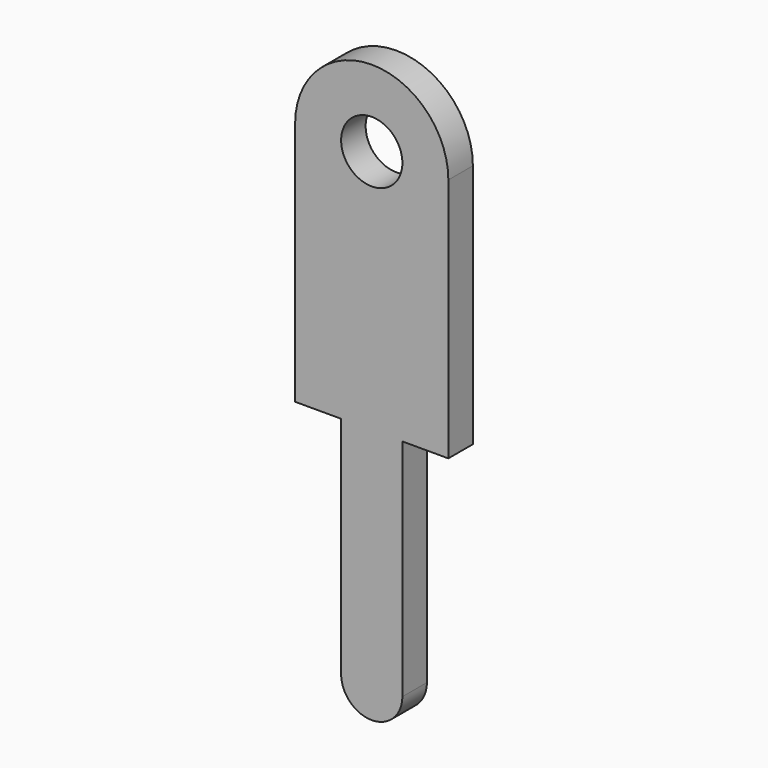
from build123d import *

# Parameters (mm, degrees)
SKETCH_R  = 0.6
PAD_DEPTH = 0.3


with BuildPart() as part:
    # Sketch → Pad (new body, symmetric)
    with BuildSketch(Plane(origin=(0, 0, 0), x_dir=(-1, 0, 0), z_dir=(0, 1, 0))):
        with BuildLine():
            Line((-1.5, 4.8), (-1.5, 0))
            Line((-1.5, 0), (-0.6, 0))
            Line((-0.6, 0), (-0.6, -4.4))
            ThreePointArc((-0.6, -4.4), (0, -5), (0.6, -4.4))
            Line((0.6, 0), (0.6, -4.4))
            Line((0.6, 0), (1.5, 0))
            Line((1.5, 0), (1.5, 4.8))
            ThreePointArc((1.5, 4.8), (0, 6.3), (-1.5, 4.8))
        make_face()
        with Locations((0, 4.8)):
            Circle(SKETCH_R, mode=Mode.SUBTRACT)
    extrude(amount=PAD_DEPTH, both=True)


solid = part.part
